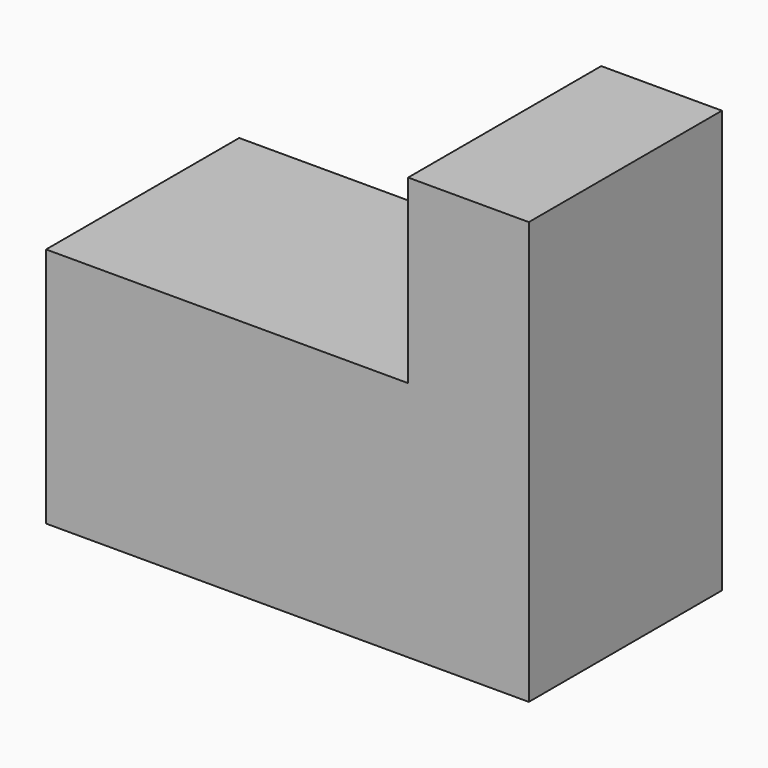
from build123d import *

# Parameters (mm, degrees)
F0_W     = 76.2
F0_H     = 50.8
F1_DEPTH = 25.4


with BuildPart() as f1:
    # F0 (on Front) → F1 (new body, symmetric)
    with BuildSketch(Plane.XZ):
        Rectangle(F0_W, F0_H)
        Polygon((38.1, 63.5), (38.1, 25.4), (38.1, -25.4), (63.5, -25.4), (63.5, 63.5), align=None)
    extrude(amount=F1_DEPTH, both=True)


solid = f1.part
